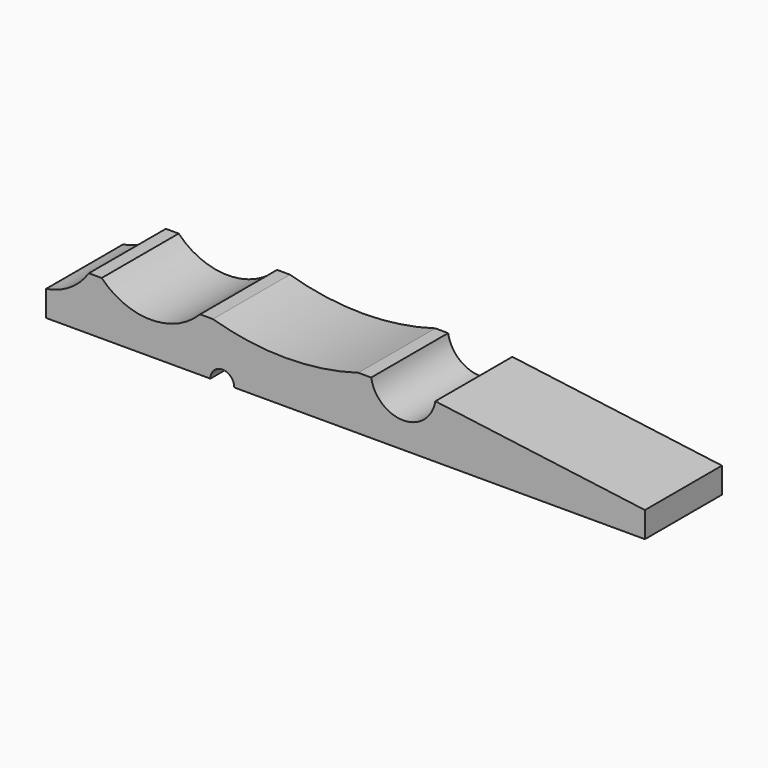
from build123d import *

# Parameters (mm, degrees)
F1_DEPTH = 11.25


with BuildPart() as f1:
    # F0 (on Front) → F1 (new body)
    with BuildSketch(Plane.XZ):
        with BuildLine():
            ThreePointArc((-79.171997, 13.656926), (-81.33179, 11.51529), (-84.171997, 10.426926))
            Line((-84.171997, 10.426926), (-84.171997, 7.426926))
            Line((-84.171997, 7.426926), (-64.971997, 7.426926))
            ThreePointArc((-64.971997, 7.426926), (-63.571997, 8.826926), (-62.171997, 7.426926))
            Line((-62.171997, 7.426926), (-14.171997, 7.426926))
            Line((-14.171997, 7.426926), (-14.171997, 10.426926))
            Line((-14.171997, 10.426926), (-38.671997, 13.656926))
            ThreePointArc((-38.671997, 13.656926), (-42.421997, 10.46775), (-46.171997, 13.656926))
            Line((-46.171997, 13.656926), (-47.671997, 13.656926))
            ThreePointArc((-47.671997, 13.656926), (-56.171997, 12.426926), (-64.671997, 13.656926))
            Line((-64.671997, 13.656926), (-66.171997, 13.656926))
            ThreePointArc((-66.171997, 13.656926), (-71.921997, 11.226926), (-77.671997, 13.656926))
            Line((-77.671997, 13.656926), (-79.171997, 13.656926))
        make_face()
    extrude(amount=F1_DEPTH)


solid = f1.part
